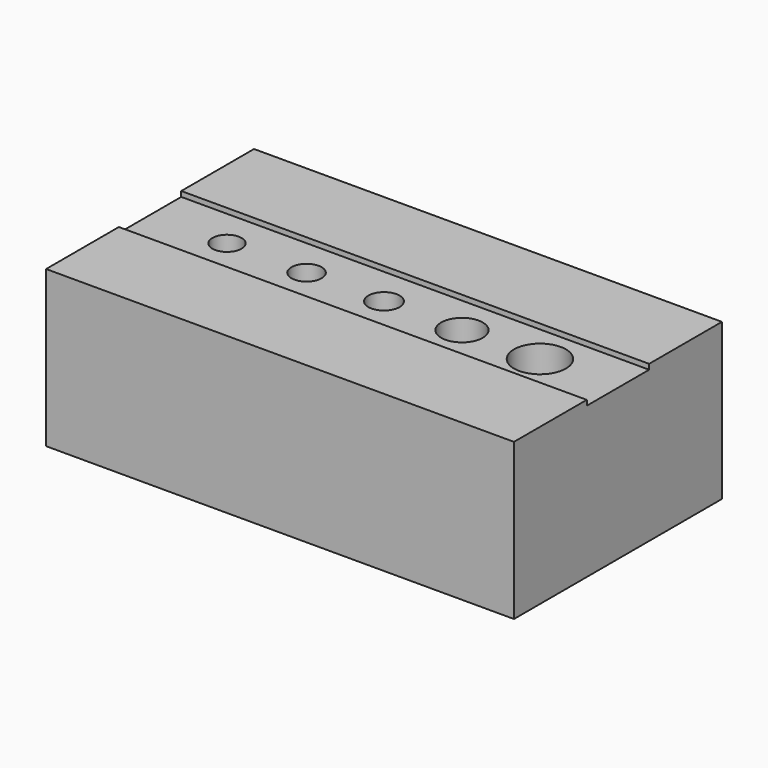
from build123d import *

# Parameters (mm, degrees)
F0_W     = 57.15
F0_H     = 11.1125
F0_H_2   = 9.525
F0_R     = 1.778
F0_R_2   = 1.8415
F0_R_3   = 1.905
F0_R_4   = 2.54
F0_R_5   = 3.175
F1_DEPTH = 19.05
F2_DEPTH = 0.635


with BuildPart() as f1:
    # F0 (on Top) → F1 (new body)
    with BuildSketch(Plane.XY):
        with Locations((0, 10.31875)):
            Rectangle(F0_W, F0_H)
        Rectangle(F0_W, F0_H_2)
        with Locations((-19.177, 0)):
            Circle(F0_R, mode=Mode.SUBTRACT)
        with Locations((-9.4615, 0)):
            Circle(F0_R_2, mode=Mode.SUBTRACT)
        Circle(F0_R_3, mode=Mode.SUBTRACT)
        with Locations((9.525, 0)):
            Circle(F0_R_4, mode=Mode.SUBTRACT)
        with Locations((19.05, 0)):
            Circle(F0_R_5, mode=Mode.SUBTRACT)
        with Locations((0, -10.31875)):
            Rectangle(F0_W, F0_H)
    extrude(amount=-F1_DEPTH)

    # F0 (on Top) → F2 (cut)
    with BuildSketch(Plane.XY):
        Rectangle(F0_W, F0_H_2)
        with Locations((-19.177, 0)):
            Circle(F0_R, mode=Mode.SUBTRACT)
        with Locations((-9.4615, 0)):
            Circle(F0_R_2, mode=Mode.SUBTRACT)
        Circle(F0_R_3, mode=Mode.SUBTRACT)
        with Locations((9.525, 0)):
            Circle(F0_R_4, mode=Mode.SUBTRACT)
        with Locations((19.05, 0)):
            Circle(F0_R_5, mode=Mode.SUBTRACT)
    extrude(amount=-F2_DEPTH, mode=Mode.SUBTRACT)


solid = f1.part
